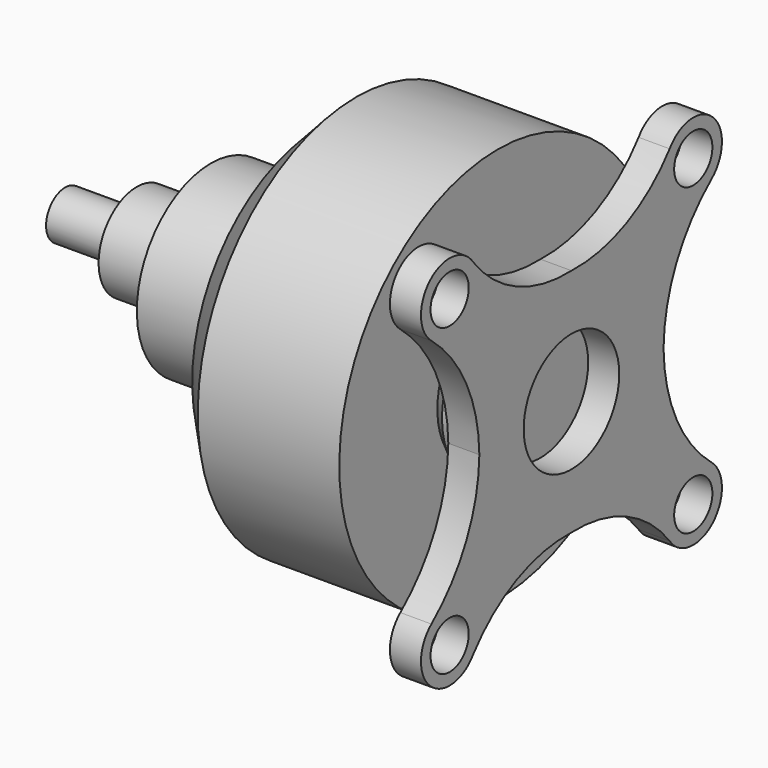
from build123d import *

# Parameters (mm, degrees)
F0_R     = 1
F0_R_2   = 2.5
F1_DEPTH = 1.3


with BuildPart() as f1:
    # F0 (on Right) → F1 (new body)
    with BuildSketch(Plane.YZ):
        with BuildLine():
            ThreePointArc((4.820666, 0), (5.499123, 2.887826), (7.3305, 5.221472))
            ThreePointArc((7.3305, 5.221472), (7.389856, 7.485034), (5.140117, 7.228301))
            ThreePointArc((5.140117, 7.228301), (2.862511, 5.401423), (0, 4.826098))
            ThreePointArc((0, 4.826098), (-2.862511, 5.401423), (-5.140117, 7.228301))
            ThreePointArc((-5.140117, 7.228301), (-7.389856, 7.485034), (-7.3305, 5.221472))
            ThreePointArc((-7.3305, 5.221472), (-5.499123, 2.887826), (-4.820666, 0))
            ThreePointArc((-4.820666, 0), (-5.499123, -2.887826), (-7.3305, -5.221472))
            ThreePointArc((-7.3305, -5.221472), (-7.389856, -7.485034), (-5.140117, -7.228301))
            ThreePointArc((-5.140117, -7.228301), (-2.862511, -5.401423), (0, -4.826098))
            ThreePointArc((0, -4.826098), (2.862511, -5.401423), (5.140117, -7.228301))
            ThreePointArc((5.140117, -7.228301), (7.389856, -7.485034), (7.3305, -5.221472))
            ThreePointArc((7.3305, -5.221472), (5.499123, -2.887826), (4.820666, 0))
        make_face()
        with Locations((-6.376549, -6.379046)):
            Circle(F0_R, mode=Mode.SUBTRACT)
        with Locations((6.376549, -6.379046)):
            Circle(F0_R, mode=Mode.SUBTRACT)
        Circle(F0_R_2, mode=Mode.SUBTRACT)
        with Locations((-6.376549, 6.379046)):
            Circle(F0_R, mode=Mode.SUBTRACT)
        with Locations((6.376549, 6.379046)):
            Circle(F0_R, mode=Mode.SUBTRACT)
    extrude(amount=-F1_DEPTH)


with BuildPart() as f3:
    # F2 (on Front) → F3 (revolve)
    with BuildSketch(Plane.XZ):
        Polygon((-1.3, 0), (-1.3, 3.55817), (-2.573486, 3.55817), (-3.081546, 3.168425), (-3.081546, 8.3), (-9.00827, 8.3), (-10.553306, 6.661325), (-10.553306, 3.076843), (-11.401278, 3.076843), (-11.911043, 3.873351), (-15.1, 3.873351), (-15.1, 2), (-18.2, 2), (-18.2, 1), (-21.2, 1), (-21.2, 0), align=None)
    revolve(axis=Axis((-11.25, 0, 0), (1, 0, 0)))


solid = Compound([f1.part, f3.part])
